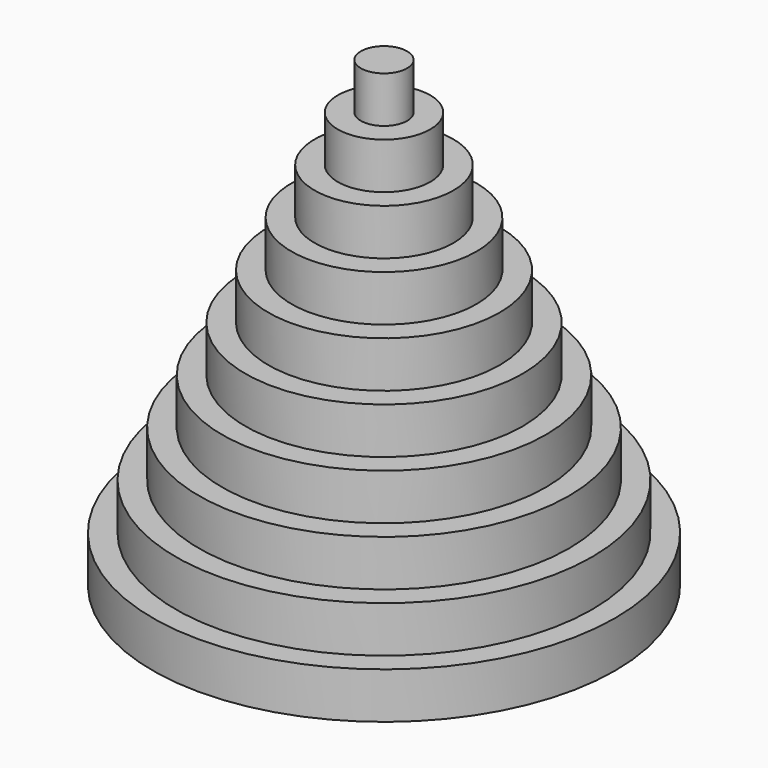
from build123d import *

# Parameters (mm, degrees)
F0_R      = 17.5
F0_R_2    = 15
F0_R_3    = 12.5
F0_R_4    = 10
F0_R_5    = 7.5
F0_R_6    = 5
F0_R_7    = 20
F0_R_8    = 25
F0_R_9    = 22.5
F0_R_10   = 2.5
F1_DEPTH  = 5
F2_DEPTH  = 10
F3_DEPTH  = 15
F4_DEPTH  = 20
F5_DEPTH  = 25
F6_DEPTH  = 30
F7_DEPTH  = 35
F8_DEPTH  = 40
F9_DEPTH  = 45
F10_DEPTH = 50


with BuildPart() as f1:
    # F0 (on Top) → F1 (new body)
    with BuildSketch(Plane.XY):
        Circle(F0_R)
        Circle(F0_R_2, mode=Mode.SUBTRACT)
        Circle(F0_R_3)
        Circle(F0_R_4, mode=Mode.SUBTRACT)
        Circle(F0_R_5)
        Circle(F0_R_6, mode=Mode.SUBTRACT)
        Circle(F0_R_4)
        Circle(F0_R_5, mode=Mode.SUBTRACT)
        Circle(F0_R_7)
        Circle(F0_R, mode=Mode.SUBTRACT)
        Circle(F0_R_2)
        Circle(F0_R_3, mode=Mode.SUBTRACT)
        Circle(F0_R_8)
        Circle(F0_R_9, mode=Mode.SUBTRACT)
        Circle(F0_R_10)
        Circle(F0_R_9)
        Circle(F0_R_7, mode=Mode.SUBTRACT)
        Circle(F0_R_6)
        Circle(F0_R_10, mode=Mode.SUBTRACT)
    extrude(amount=F1_DEPTH)

    # F0 (on Top) → F2 (join)
    with BuildSketch(Plane.XY):
        Circle(F0_R)
        Circle(F0_R_2, mode=Mode.SUBTRACT)
        Circle(F0_R_3)
        Circle(F0_R_4, mode=Mode.SUBTRACT)
        Circle(F0_R_5)
        Circle(F0_R_6, mode=Mode.SUBTRACT)
        Circle(F0_R_4)
        Circle(F0_R_5, mode=Mode.SUBTRACT)
        Circle(F0_R_7)
        Circle(F0_R, mode=Mode.SUBTRACT)
        Circle(F0_R_2)
        Circle(F0_R_3, mode=Mode.SUBTRACT)
        Circle(F0_R_10)
        Circle(F0_R_9)
        Circle(F0_R_7, mode=Mode.SUBTRACT)
        Circle(F0_R_6)
        Circle(F0_R_10, mode=Mode.SUBTRACT)
    extrude(amount=F2_DEPTH)

    # F0 (on Top) → F3 (join)
    with BuildSketch(Plane.XY):
        Circle(F0_R)
        Circle(F0_R_2, mode=Mode.SUBTRACT)
        Circle(F0_R_3)
        Circle(F0_R_4, mode=Mode.SUBTRACT)
        Circle(F0_R_5)
        Circle(F0_R_6, mode=Mode.SUBTRACT)
        Circle(F0_R_4)
        Circle(F0_R_5, mode=Mode.SUBTRACT)
        Circle(F0_R_7)
        Circle(F0_R, mode=Mode.SUBTRACT)
        Circle(F0_R_2)
        Circle(F0_R_3, mode=Mode.SUBTRACT)
        Circle(F0_R_10)
        Circle(F0_R_6)
        Circle(F0_R_10, mode=Mode.SUBTRACT)
    extrude(amount=F3_DEPTH)

    # F0 (on Top) → F4 (join)
    with BuildSketch(Plane.XY):
        Circle(F0_R_10)
        Circle(F0_R_6)
        Circle(F0_R_10, mode=Mode.SUBTRACT)
        Circle(F0_R_5)
        Circle(F0_R_6, mode=Mode.SUBTRACT)
        Circle(F0_R_4)
        Circle(F0_R_5, mode=Mode.SUBTRACT)
        Circle(F0_R_3)
        Circle(F0_R_4, mode=Mode.SUBTRACT)
        Circle(F0_R_2)
        Circle(F0_R_3, mode=Mode.SUBTRACT)
        Circle(F0_R)
        Circle(F0_R_2, mode=Mode.SUBTRACT)
    extrude(amount=F4_DEPTH)

    # F0 (on Top) → F5 (join)
    with BuildSketch(Plane.XY):
        Circle(F0_R_10)
        Circle(F0_R_6)
        Circle(F0_R_10, mode=Mode.SUBTRACT)
        Circle(F0_R_5)
        Circle(F0_R_6, mode=Mode.SUBTRACT)
        Circle(F0_R_4)
        Circle(F0_R_5, mode=Mode.SUBTRACT)
        Circle(F0_R_3)
        Circle(F0_R_4, mode=Mode.SUBTRACT)
        Circle(F0_R_2)
        Circle(F0_R_3, mode=Mode.SUBTRACT)
    extrude(amount=F5_DEPTH)

    # F0 (on Top) → F6 (join)
    with BuildSketch(Plane.XY):
        Circle(F0_R_10)
        Circle(F0_R_6)
        Circle(F0_R_10, mode=Mode.SUBTRACT)
        Circle(F0_R_5)
        Circle(F0_R_6, mode=Mode.SUBTRACT)
        Circle(F0_R_4)
        Circle(F0_R_5, mode=Mode.SUBTRACT)
        Circle(F0_R_3)
        Circle(F0_R_4, mode=Mode.SUBTRACT)
    extrude(amount=F6_DEPTH)

    # F0 (on Top) → F7 (join)
    with BuildSketch(Plane.XY):
        Circle(F0_R_4)
        Circle(F0_R_5, mode=Mode.SUBTRACT)
        Circle(F0_R_5)
        Circle(F0_R_6, mode=Mode.SUBTRACT)
        Circle(F0_R_6)
        Circle(F0_R_10, mode=Mode.SUBTRACT)
        Circle(F0_R_10)
    extrude(amount=F7_DEPTH)

    # F0 (on Top) → F8 (join)
    with BuildSketch(Plane.XY):
        Circle(F0_R_10)
        Circle(F0_R_6)
        Circle(F0_R_10, mode=Mode.SUBTRACT)
        Circle(F0_R_5)
        Circle(F0_R_6, mode=Mode.SUBTRACT)
    extrude(amount=F8_DEPTH)

    # F0 (on Top) → F9 (join)
    with BuildSketch(Plane.XY):
        Circle(F0_R_6)
        Circle(F0_R_10, mode=Mode.SUBTRACT)
        Circle(F0_R_10)
    extrude(amount=F9_DEPTH)

    # F0 (on Top) → F10 (join)
    with BuildSketch(Plane.XY):
        Circle(F0_R_10)
    extrude(amount=F10_DEPTH)


solid = f1.part
